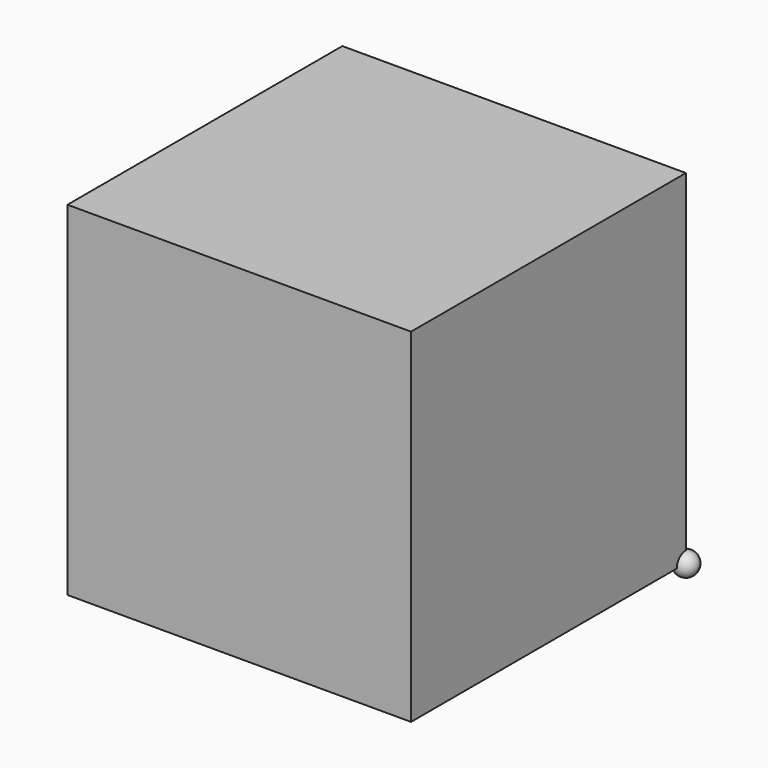
from build123d import *

# Parameters (mm, degrees)
F1_DEPTH = 45


with BuildPart() as f1:
    # F0 (on Top) → F1 (new body)
    with BuildSketch(Plane.XY):
        with BuildLine():
            Line((-21, 22.5), (-22.5, 22.5))
            Line((-22.5, 22.5), (-22.5, 21))
            ThreePointArc((-22.5, 21), (-21.43934, 21.43934), (-21, 22.5))
        make_face()
        with BuildLine():
            Line((21, 22.5), (-21, 22.5))
            ThreePointArc((-21, 22.5), (-21.43934, 21.43934), (-22.5, 21))
            Line((-22.5, 21), (-22.5, -21))
            ThreePointArc((-22.5, -21), (-21.43934, -21.43934), (-21, -22.5))
            Line((-21, -22.5), (21, -22.5))
            ThreePointArc((21, -22.5), (21.43934, -21.43934), (22.5, -21))
            Line((22.5, -21), (22.5, 22.5))
            Line((22.5, 22.5), (21, 22.5))
        make_face()
        with BuildLine():
            Line((22.5, -22.5), (22.5, -21))
            ThreePointArc((22.5, -21), (21.43934, -21.43934), (21, -22.5))
            Line((21, -22.5), (22.5, -22.5))
        make_face()
        with BuildLine():
            Line((-21, 22.5), (-22.5, 22.5))
            Line((-22.5, 22.5), (-22.5, 21))
            ThreePointArc((-22.5, 21), (-21.43934, 21.43934), (-21, 22.5))
        make_face()
        with BuildLine():
            ThreePointArc((-21, -22.5), (-21.43934, -21.43934), (-22.5, -21))
            Line((-22.5, -21), (-22.5, -22.5))
            Line((-22.5, -22.5), (-21, -22.5))
        make_face()
    extrude(amount=F1_DEPTH)


with BuildPart() as f2:
    # F0 (on Top) → F2 (revolve)
    with BuildSketch(Plane.XY):
        with BuildLine():
            ThreePointArc((24, 22.5), (22.5, 24), (21, 22.5))
            Line((21, 22.5), (22.5, 22.5))
            Line((22.5, 22.5), (24, 22.5))
        make_face()
    revolve(axis=Axis((23.25, 22.5, 0), (1, 0, 0)))


solid = Compound([f1.part, f2.part])
